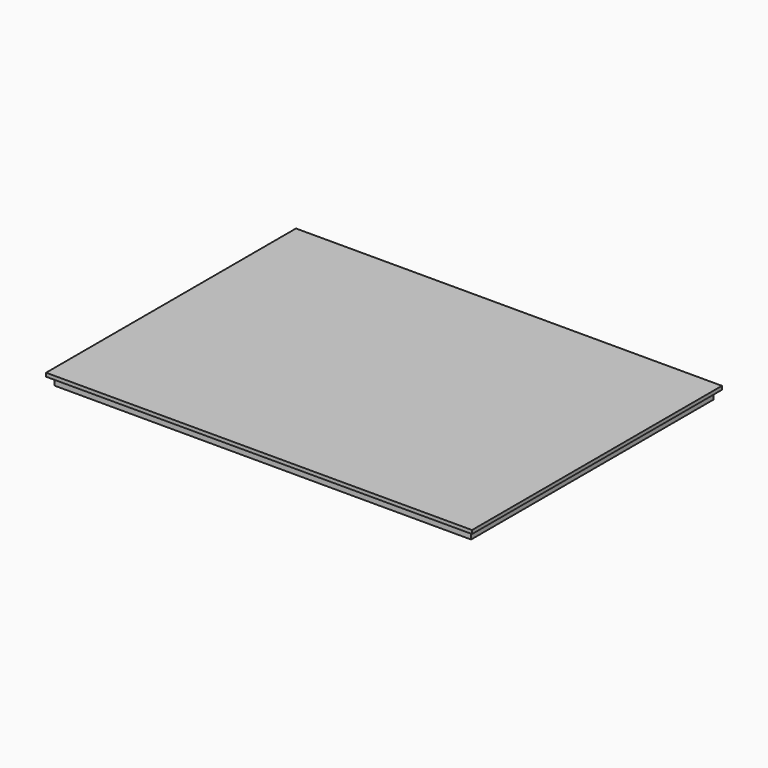
from build123d import *

# Parameters (mm, degrees)
F0_W     = 4572
F0_H     = 3352.8
F1_DEPTH = 38.1
F2_W     = 4470.4
F2_H     = 3251.2
F2_W_2   = 4394.2
F2_H_2   = 3175
F3_DEPTH = 88.9


with BuildPart() as f1:
    # F0 (on Top) → F1 (new body)
    with BuildSketch(Plane.XY):
        with Locations((258.890924, 293.208444)):
            Rectangle(F0_W, F0_H)
    extrude(amount=F1_DEPTH)

    # F2 (on face) → F3 (join)
    with BuildSketch(Plane(origin=(0, 0, 0), x_dir=(1, 0, 0), z_dir=(0, 0, -1))):
        with Locations((258.890924, -293.208444)):
            Rectangle(F2_W, F2_H)
        with Locations((258.890924, -293.208444)):
            Rectangle(F2_W_2, F2_H_2, mode=Mode.SUBTRACT)
    extrude(amount=F3_DEPTH)


solid = f1.part
